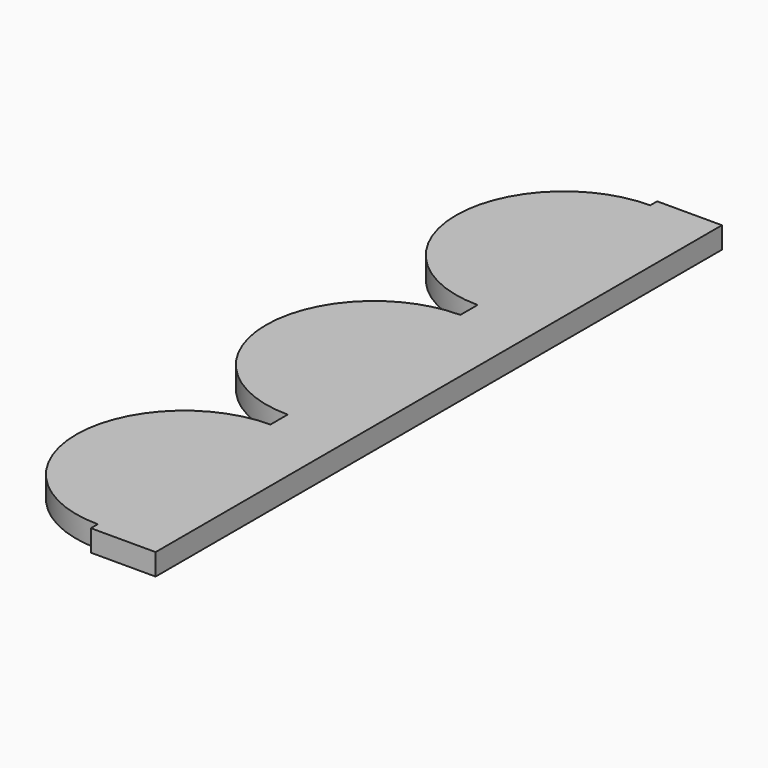
from build123d import *

# Parameters (mm, degrees)
F1_DEPTH = 5


with BuildPart() as f1:
    # F0 (on Top) → F1 (new body)
    with BuildSketch(Plane.XY):
        with BuildLine():
            Line((0, 82), (0, 80))
            ThreePointArc((0, 80), (-25, 55), (0, 30))
            Line((0, 30), (0, 25))
            ThreePointArc((0, 25), (-25, 0), (0, -25))
            Line((0, -25), (0, -30))
            ThreePointArc((0, -30), (-25, -55), (0, -80))
            Line((0, -80), (0, -82))
            Line((0, -82), (15, -82))
            Line((15, -82), (15, 82))
            Line((15, 82), (0, 82))
        make_face()
    extrude(amount=F1_DEPTH)


solid = f1.part
